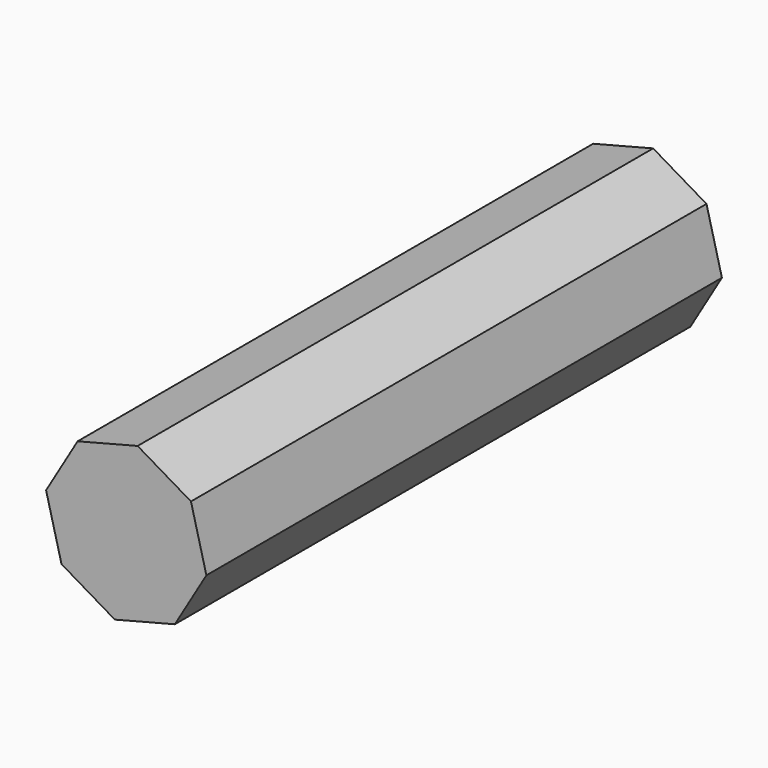
from build123d import *

# Parameters (mm, degrees)
F1_DEPTH = 1000
F3_DEPTH = 20
F5_DEPTH = 20
F6_W     = 5
F6_H     = 20
F6_W_2   = 5.306981504
F6_H_2   = 20.2277452282
F6_H_3   = 19.7730884484
F6_H_4   = 20.0205668807
F7_DEPTH = 10
F8_W     = 20
F8_H     = 5
F8_W_2   = 24.3560184093
F8_W_3   = 24.7423566433
F9_DEPTH = 10


with BuildPart() as f1:
    # F0 (on Front) → F1 (new body)
    with BuildSketch(Plane.XZ):
        Polygon((-25.4371412109, 9.8241950833), (25.4371412109, 95.9160494486), (0.5345572728, 192.7657335638), (-85.5572970925, 243.6400159857), (-182.4069812077, 218.7374320475), (-175.9050775467, 210.0839624365), (-87.0786839659, 232.9235487736), (-8.1189123382, 186.2638299028), (14.7206739989, 97.437436322), (-31.939044872, 18.4776646943), (-120.7654384527, -4.3619216428), (-199.7252100804, 42.2977972281), (-208.3786796914, 35.795893567), (-122.2868253261, -15.0783888548), align=None)
    extrude(amount=F1_DEPTH)

    # F2 (on face) → F3 (join)
    with BuildSketch(Plane.XZ.offset(1000)):
        Polygon((-85.5572970925, 243.6400159857), (-182.4069812077, 218.7374320475), (-233.2812636296, 132.6455776822), (-208.3786796914, 35.795893567), (-122.2868253261, -15.0783888548), (-25.4371412109, 9.8241950833), (25.4371412109, 95.9160494486), (0.5345572728, 192.7657335638), align=None)
    extrude(amount=F3_DEPTH)

    # F4 (on face) → F5 (join)
    with BuildSketch(Plane(origin=(0, 0, 0), x_dir=(-1, 0, 0), z_dir=(0, 1, 0))):
        Polygon((233.7723523378, 133.2491934299), (182.4069812077, 218.7374320475), (85.5572970925, 243.6400159857), (-0.5345572728, 192.7657335638), (-25.4371412109, 95.9160494486), (25.4371412109, 9.8241950833), (122.2868253261, -15.0783888548), (208.3786796914, 35.795893567), align=None)
    extrude(amount=F5_DEPTH)

    # F6 (on face) → F7 (join)
    with BuildSketch(Plane(origin=(37.3078209342, 0, 9.5928154113), x_dir=(0, -1, 0), z_dir=(-0.9684968412, 0, -0.2490258394))):
        with Locations((32.5, 133.3139071396)):
            Rectangle(F6_W, F6_H)
        with Locations((45.5, 133.3265442368)):
            Rectangle(F6_W, F6_H)
        with Locations((80.653490752, 133.3139071396)):
            Rectangle(F6_W_2, F6_H)
        with Locations((93.806981504, 133.2000345256)):
            Rectangle(F6_W, F6_H_2)
        with Locations((128.806981504, 133.3139071396)):
            Rectangle(F6_W, F6_H)
        with Locations((141.806981504, 133.4273629154)):
            Rectangle(F6_W, F6_H_3)
        with Locations((176.806981504, 133.3139071396)):
            Rectangle(F6_W, F6_H)
        with Locations((189.806981504, 133.3139071396)):
            Rectangle(F6_W, F6_H)
        with Locations((224.806981504, 133.3139071396)):
            Rectangle(F6_W, F6_H)
        with Locations((237.806981504, 133.3139071396)):
            Rectangle(F6_W, F6_H)
        with Locations((272.806981504, 133.3139071396)):
            Rectangle(F6_W, F6_H)
        with Locations((285.806981504, 133.3139071396)):
            Rectangle(F6_W, F6_H)
        with Locations((320.806981504, 133.3139071396)):
            Rectangle(F6_W, F6_H)
        with Locations((333.806981504, 133.3139071396)):
            Rectangle(F6_W, F6_H)
        with Locations((368.806981504, 133.3139071396)):
            Rectangle(F6_W, F6_H)
        with Locations((381.806981504, 133.3139071396)):
            Rectangle(F6_W, F6_H)
        with Locations((416.806981504, 133.3139071396)):
            Rectangle(F6_W, F6_H)
        with Locations((429.806981504, 133.3139071396)):
            Rectangle(F6_W, F6_H)
        with Locations((464.806981504, 133.3139071396)):
            Rectangle(F6_W, F6_H)
        with Locations((477.806981504, 133.3139071396)):
            Rectangle(F6_W, F6_H)
        with Locations((512.806981504, 133.3139071396)):
            Rectangle(F6_W, F6_H)
        with Locations((525.806981504, 133.3139071396)):
            Rectangle(F6_W, F6_H)
        with Locations((560.806981504, 133.3139071396)):
            Rectangle(F6_W, F6_H)
        with Locations((573.806981504, 133.3139071396)):
            Rectangle(F6_W, F6_H)
        with Locations((608.806981504, 133.3139071396)):
            Rectangle(F6_W, F6_H)
        with Locations((621.806981504, 133.3139071396)):
            Rectangle(F6_W, F6_H)
        with Locations((656.806981504, 133.3139071396)):
            Rectangle(F6_W, F6_H)
        with Locations((669.806981504, 133.3139071396)):
            Rectangle(F6_W, F6_H)
        with Locations((704.806981504, 133.3139071396)):
            Rectangle(F6_W, F6_H)
        with Locations((717.806981504, 133.3139071396)):
            Rectangle(F6_W, F6_H)
        with Locations((752.806981504, 133.3139071396)):
            Rectangle(F6_W, F6_H)
        with Locations((765.806981504, 133.3139071396)):
            Rectangle(F6_W, F6_H)
        with Locations((800.806981504, 133.3139071396)):
            Rectangle(F6_W, F6_H)
        with Locations((813.806981504, 133.3139071396)):
            Rectangle(F6_W, F6_H)
        with Locations((848.806981504, 133.3139071396)):
            Rectangle(F6_W, F6_H)
        with Locations((861.806981504, 133.3139071396)):
            Rectangle(F6_W, F6_H)
        with Locations((896.806981504, 133.3036236993)):
            Rectangle(F6_W, F6_H_4)
        with Locations((909.806981504, 133.3139071396)):
            Rectangle(F6_W, F6_H)
        with Locations((944.806981504, 133.3139071396)):
            Rectangle(F6_W, F6_H)
        with Locations((957.806981504, 133.3139071396)):
            Rectangle(F6_W, F6_H)
    extrude(amount=F7_DEPTH)

    # F8 (on face) → F9 (join)
    with BuildSketch(Plane(origin=(-6.4371205568, 0, 25.0348756614), x_dir=(0.9684968412, 0, 0.2490258394), z_dir=(-0.2490258394, 0, 0.9684968412))):
        with Locations((-72.1835481076, -32.5)):
            Rectangle(F8_W, F8_H)
        with Locations((-72.1835481076, -45.5)):
            Rectangle(F8_W, F8_H)
        with Locations((-72.1835481076, -80.5)):
            Rectangle(F8_W, F8_H)
        with Locations((-72.1835481076, -93.5)):
            Rectangle(F8_W, F8_H)
        with Locations((-72.1835481076, -128.5)):
            Rectangle(F8_W, F8_H)
        with Locations((-72.1835481076, -141.5)):
            Rectangle(F8_W, F8_H)
        with Locations((-72.1835481076, -176.5)):
            Rectangle(F8_W, F8_H)
        with Locations((-72.1835481076, -189.5)):
            Rectangle(F8_W, F8_H)
        with Locations((-72.1835481076, -224.5)):
            Rectangle(F8_W, F8_H)
        with Locations((-72.1835481076, -237.5)):
            Rectangle(F8_W, F8_H)
        with Locations((-72.1835481076, -272.5)):
            Rectangle(F8_W, F8_H)
        with Locations((-72.1835481076, -285.5)):
            Rectangle(F8_W, F8_H)
        with Locations((-74.3615573122, -320.5)):
            Rectangle(F8_W_2, F8_H)
        with Locations((-74.5547264292, -333.5)):
            Rectangle(F8_W_3, F8_H)
        with Locations((-72.1835481076, -368.5)):
            Rectangle(F8_W, F8_H)
        with Locations((-72.1835481076, -381.5)):
            Rectangle(F8_W, F8_H)
        with Locations((-72.1835481076, -416.5)):
            Rectangle(F8_W, F8_H)
        with Locations((-72.1835481076, -429.5)):
            Rectangle(F8_W, F8_H)
        with Locations((-72.1835481076, -464.5)):
            Rectangle(F8_W, F8_H)
        with Locations((-72.1835481076, -477.5)):
            Rectangle(F8_W, F8_H)
        with Locations((-72.1835481076, -512.5)):
            Rectangle(F8_W, F8_H)
        with Locations((-72.1835481076, -525.5)):
            Rectangle(F8_W, F8_H)
        with Locations((-72.1835481076, -560.5)):
            Rectangle(F8_W, F8_H)
        with Locations((-72.1835481076, -573.5)):
            Rectangle(F8_W, F8_H)
        with Locations((-72.1835481076, -608.5)):
            Rectangle(F8_W, F8_H)
        with Locations((-72.1835481076, -621.5)):
            Rectangle(F8_W, F8_H)
        with Locations((-72.1835481076, -656.5)):
            Rectangle(F8_W, F8_H)
        with Locations((-72.1835481076, -669.5)):
            Rectangle(F8_W, F8_H)
        with Locations((-72.1835481076, -704.5)):
            Rectangle(F8_W, F8_H)
        with Locations((-72.1835481076, -717.5)):
            Rectangle(F8_W, F8_H)
        with Locations((-72.1835481076, -752.5)):
            Rectangle(F8_W, F8_H)
        with Locations((-72.1835481076, -765.5)):
            Rectangle(F8_W, F8_H)
        with Locations((-72.1835481076, -800.5)):
            Rectangle(F8_W, F8_H)
        with Locations((-72.1835481076, -813.5)):
            Rectangle(F8_W, F8_H)
        with Locations((-72.1835481076, -848.5)):
            Rectangle(F8_W, F8_H)
        with Locations((-72.1835481076, -861.5)):
            Rectangle(F8_W, F8_H)
        with Locations((-72.1835481076, -896.5)):
            Rectangle(F8_W, F8_H)
        with Locations((-72.1835481076, -909.5)):
            Rectangle(F8_W, F8_H)
        with Locations((-71.6462047843, -944.5)):
            Rectangle(F8_W, F8_H)
        with Locations((-72.1835481076, -957.5)):
            Rectangle(F8_W, F8_H)
    extrude(amount=F9_DEPTH)


solid = f1.part
